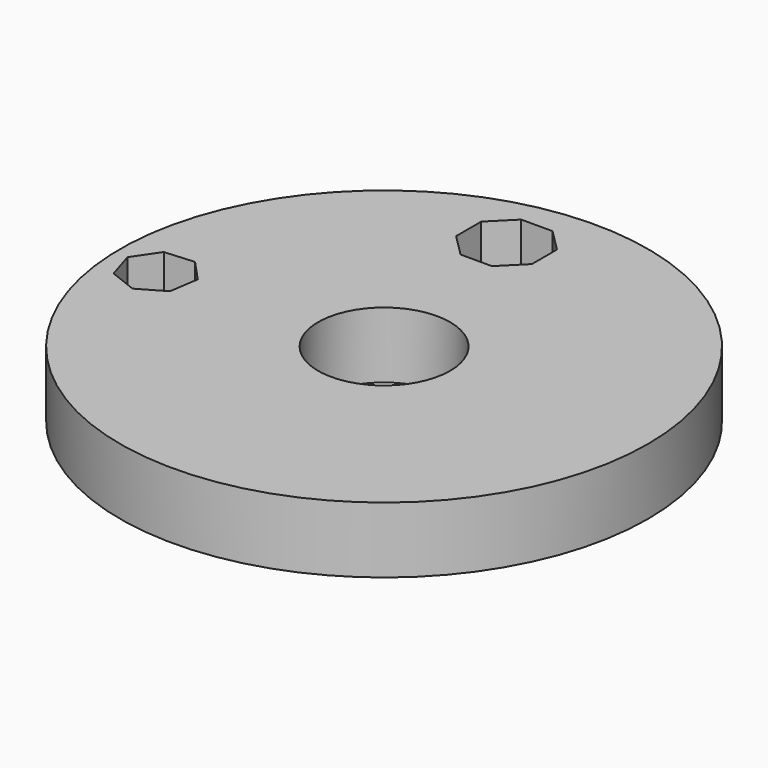
from build123d import *

# Parameters (mm, degrees)
F0_R     = 50.8
F0_R_2   = 12.7
F1_DEPTH = 12.7


with BuildPart() as f1:
    # F0 (on Top) → F1 (new body)
    with BuildSketch(Plane.XY):
        Circle(F0_R)
        Polygon((-35.504144, -0.431611), (-36.355099, -6.06507), (-41.290076, -8.912171), (-46.592937, -6.828988), (-48.270519, -1.384202), (-45.059569, 3.322154), (-39.377998, 3.746096), align=None, mode=Mode.SUBTRACT)
        Circle(F0_R_2, mode=Mode.SUBTRACT)
        Polygon((0.591205, 34.816982), (-3.680086, 30.545691), (-9.720604, 30.545691), (-13.991895, 34.816982), (-13.991895, 40.8575), (-9.720604, 45.128791), (-3.680086, 45.128791), (0.591205, 40.8575), align=None, mode=Mode.SUBTRACT)
    extrude(amount=F1_DEPTH)


solid = f1.part
